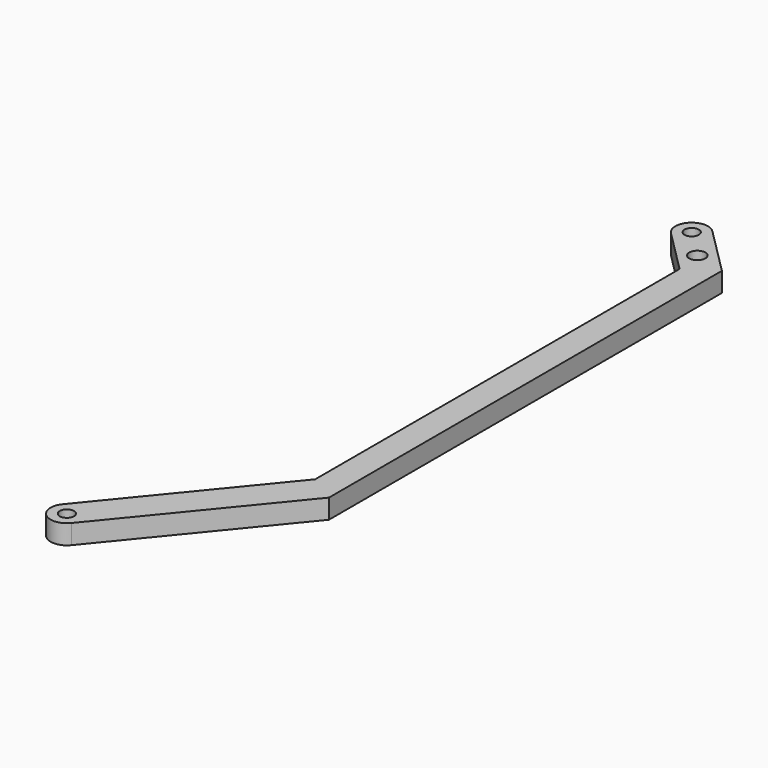
from build123d import *

# Parameters (mm, degrees)
SKETCH_1_R   = 1.1
SKETCH_1_R_2 = 1.240624
PAD_DEPTH    = 3


with BuildPart() as part:
    # Sketch_1 → Pad (new body)
    with BuildSketch(Plane.XY):
        with BuildLine():
            ThreePointArc((1.767767, 1.767767), (-1.767767, 1.767767), (-1.767767, -1.767767))
            Line((-1.767767, -1.767767), (4.836212, -8.371746))
            Line((4.836212, -8.371746), (4.836212, -78.366013))
            Line((4.836212, -78.366013), (-14.796054, -102.373325))
            ThreePointArc((-14.796054, -102.373325), (-14.44337, -105.891224), (-10.925471, -105.53854))
            Line((9.09799, -81.052855), (-10.925471, -105.53854))
            Line((9.09799, -5.562456), (9.09799, -81.052855))
            Line((1.767767, 1.767767), (9.09799, -5.562456))
        make_face()
        with Locations((-12.860762, -103.955933)):
            Circle(SKETCH_1_R, mode=Mode.SUBTRACT)
        Circle(SKETCH_1_R, mode=Mode.SUBTRACT)
        with Locations((4.297746, -4.297745)):
            Circle(SKETCH_1_R_2, mode=Mode.SUBTRACT)
    extrude(amount=PAD_DEPTH)


solid = part.part
